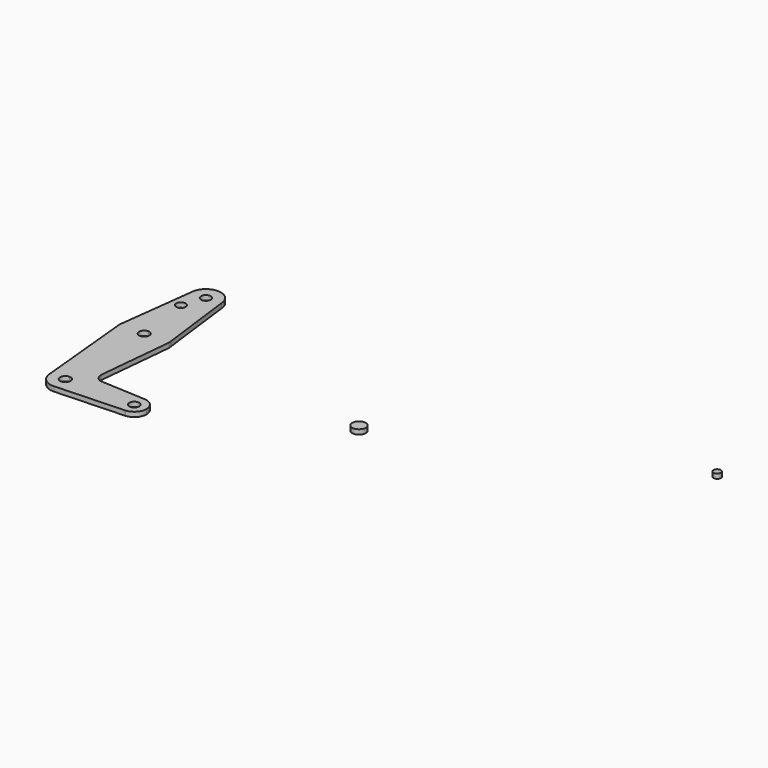
from build123d import *

# Parameters (mm, degrees)
F0_R     = 3.0886982289
F1_DEPTH = 3.048
F0_R_2   = 2.3739096922
F0_R_3   = 4.3680824595


with BuildPart() as f1:
    # F0 (on Top) → F1 (new body)
    with BuildSketch(Plane.XY):
        with BuildLine():
            ThreePointArc((-140.2758508921, 40.1682988362), (-133.4250060926, 43.0060116659), (-130.587293263, 49.8568564653))
            ThreePointArc((-130.587293263, 49.8568564653), (-130.5906056645, 50.1101819761), (-130.6005406042, 50.363334269))
            ThreePointArc((-130.6005406042, 50.363334269), (-139.8201268297, 59.5346901337), (-149.8607536893, 51.2702875036))
            Line((-149.8607536893, 51.2702875036), (-149.9162041011, 50.8221227176))
            ThreePointArc((-149.9162041011, 50.8221227176), (-147.4598674095, 43.3562368326), (-140.2758508921, 40.1682988362))
        make_face()
        with BuildLine():
            ThreePointArc((-137.1249175173, 49.8568564653), (-138.0478045357, 47.628810109), (-140.2758508921, 46.7059230906))
            ThreePointArc((-140.2758508921, 46.7059230906), (-142.5038972484, 52.0849028217), (-137.1249175173, 49.8568564653))
        make_face(mode=Mode.SUBTRACT)
        with BuildLine():
            ThreePointArc((-130.6005406042, 50.363334269), (-130.5906056645, 50.1101819761), (-130.587293263, 49.8568564653))
            ThreePointArc((-130.587293263, 49.8568564653), (-133.4250060926, 43.0060116659), (-140.2758508921, 40.1682988362))
            Line((-140.2758508921, 40.1682988362), (-140.2758508921, 15.8079204882))
            ThreePointArc((-140.2758508921, 15.8079204882), (-129.8093341247, 11.8466187969), (-124.5884194722, 1.9480363467))
            Line((-124.5884194722, 1.9480363467), (-130.6005406042, 50.363334269))
        make_face()
        with BuildLine():
            Line((-140.2758508921, 15.8079204882), (-140.2758508921, 40.1682988362))
            ThreePointArc((-140.2758508921, 40.1682988362), (-147.4598674095, 43.3562368326), (-149.9162041011, 50.8221227176))
            Line((-149.9162041011, 50.8221227176), (-155.9641448625, 1.9410776537))
            ThreePointArc((-155.9641448625, 1.9410776537), (-150.7449948148, 11.8442971799), (-140.2758508921, 15.8079204882))
        make_face()
        with Locations((-145.2001780272, 35.8199849725)):
            Circle(F0_R, mode=Mode.SUBTRACT)
        with BuildLine():
            Line((-149.9162041011, 50.8221227176), (-149.8607536893, 51.2702875036))
            ThreePointArc((-149.8607536893, 51.2702875036), (-149.891090361, 51.0465282213), (-149.9162041011, 50.8221227176))
        make_face()
        with BuildLine():
            Line((-124.3465159626, 0), (-124.5884194722, 1.9480363467))
            ThreePointArc((-124.5884194722, 1.9480363467), (-124.498081425, 0.9758795038), (-124.4679304039, 0))
            ThreePointArc((-124.4679304039, 0), (-129.0979631184, -11.1778877737), (-140.2758508921, -15.8079204882))
            Line((-140.2758508921, -15.8079204882), (-140.2758508921, -53.9274445312))
            ThreePointArc((-140.2758508921, -53.9274445312), (-133.4029489314, -56.7742937362), (-130.5560997264, -63.6471956968))
            Line((-130.5560997264, -63.6471956968), (-103.61304343, -63.6471956968))
            ThreePointArc((-103.61304343, -63.6471956968), (-101.1588327279, -57.9356262325), (-95.3262316546, -55.784826233))
            Line((-95.3262316546, -55.784826233), (-122.5580726915, -54.3523901093))
            ThreePointArc((-122.5580726915, -54.3523901093), (-123.7804203944, -54.4215588639), (-124.9887658024, -54.2245319666))
            ThreePointArc((-124.9887658024, -54.2245319666), (-127.961419377, -52.2093659514), (-129.1081595947, -48.8060513587))
            ThreePointArc((-129.1081595947, -48.8060513587), (-129.0815874585, -48.2601937732), (-129.0021522356, -47.7194936462))
            Line((-129.0021522356, -47.7194936462), (-124.3465159626, 0))
        make_face()
        with BuildLine():
            ThreePointArc((-124.4679304039, 0), (-124.498081425, 0.9758795038), (-124.5884194722, 1.9480363467))
            ThreePointArc((-124.5884194722, 1.9480363467), (-129.8093341247, 11.8466187969), (-140.2758508921, 15.8079204882))
            Line((-140.2758508921, 15.8079204882), (-140.2758508921, 3.3200765481))
            ThreePointArc((-140.2758508921, 3.3200765481), (-137.9282022508, 2.3476486413), (-136.9557743439, 0))
            ThreePointArc((-136.9557743439, 0), (-137.9282022508, -2.3476486413), (-140.2758508921, -3.3200765481))
            Line((-140.2758508921, -3.3200765481), (-140.2758508921, -15.8079204882))
            ThreePointArc((-140.2758508921, -15.8079204882), (-129.0979631184, -11.1778877737), (-124.4679304039, 0))
        make_face()
        with BuildLine():
            Line((-140.2758508921, 3.3200765481), (-140.2758508921, 15.8079204882))
            ThreePointArc((-140.2758508921, 15.8079204882), (-150.7449948148, 11.8442971799), (-155.9641448625, 1.9410776537))
            ThreePointArc((-155.9641448625, 1.9410776537), (-152.120148072, -10.4691439228), (-140.2758508921, -15.8079204882))
            Line((-140.2758508921, -15.8079204882), (-140.2758508921, -3.3200765481))
            ThreePointArc((-140.2758508921, -3.3200765481), (-143.5959274402, 0), (-140.2758508921, 3.3200765481))
        make_face()
        with BuildLine():
            ThreePointArc((-140.2758508921, -15.8079204882), (-152.120148072, -10.4691439228), (-155.9641448625, 1.9410776537))
            Line((-155.9641448625, 1.9410776537), (-156.204309995, 0))
            Line((-156.204309995, 0), (-149.9503494028, -64.5840208074))
            ThreePointArc((-149.9503494028, -64.5840208074), (-147.4723524617, -57.1139018966), (-140.2758508921, -53.9274445312))
            Line((-140.2758508921, -53.9274445312), (-140.2758508921, -15.8079204882))
        make_face()
        with BuildLine():
            Line((-129.1081595947, -48.8060513587), (-129.0021522356, -47.7194936462))
            ThreePointArc((-129.0021522356, -47.7194936462), (-129.0815874585, -48.2601937732), (-129.1081595947, -48.8060513587))
        make_face()
        with BuildLine():
            ThreePointArc((-130.5560997264, -63.6471956968), (-133.4029489314, -56.7742937362), (-140.2758508921, -53.9274445312))
            ThreePointArc((-140.2758508921, -53.9274445312), (-147.4723524617, -57.1139018966), (-149.9503494028, -64.5840208074))
            ThreePointArc((-149.9503494028, -64.5840208074), (-146.6584228149, -70.9777030716), (-139.8726003304, -73.3585782815))
            ThreePointArc((-139.8726003304, -73.3585782815), (-133.2618271596, -70.3760168271), (-130.5560997264, -63.6471956968))
        make_face()
        with BuildLine():
            ThreePointArc((-140.2758508921, -60.2817385712), (-137.8961133368, -61.2674581415), (-136.9103937665, -63.6471956968))
            ThreePointArc((-136.9103937665, -63.6471956968), (-142.6555884474, -66.0269332521), (-140.2758508921, -60.2817385712))
        make_face(mode=Mode.SUBTRACT)
        with BuildLine():
            Line((-103.61304343, -63.6471956968), (-130.5560997264, -63.6471956968))
            ThreePointArc((-130.5560997264, -63.6471956968), (-133.2618271596, -70.3760168271), (-139.8726003304, -73.3585782815))
            Line((-139.8726003304, -73.3585782815), (-95.5498732555, -71.518143675))
            ThreePointArc((-95.5498732555, -71.518143675), (-101.2394643803, -69.2811671056), (-103.61304343, -63.6471956968))
        make_face()
        with BuildLine():
            Line((-122.5580726915, -54.3523901093), (-124.9887658024, -54.2245319666))
            ThreePointArc((-124.9887658024, -54.2245319666), (-123.7804203944, -54.4215588639), (-122.5580726915, -54.3523901093))
        make_face()
        with BuildLine():
            ThreePointArc((-95.3262316546, -55.784826233), (-101.1588327279, -57.9356262325), (-103.61304343, -63.6471956968))
            ThreePointArc((-103.61304343, -63.6471956968), (-101.2394643803, -69.2811671056), (-95.5498732555, -71.518143675))
            Line((-95.5498732555, -71.518143675), (-95.2765478659, -71.5067942491))
            ThreePointArc((-95.2765478659, -71.5067942491), (-90.0111384017, -69.0481478276), (-87.8665649866, -63.6471956968))
            ThreePointArc((-87.8665649866, -63.6471956968), (-90.0282347439, -58.2281671773), (-95.3262316546, -55.784826233))
        make_face()
        with BuildLine():
            ThreePointArc((-92.5238399909, -63.6471956968), (-95.7398042083, -66.8631599142), (-98.9557684257, -63.6471956968))
            ThreePointArc((-98.9557684257, -63.6471956968), (-95.7398042083, -60.4312314794), (-92.5238399909, -63.6471956968))
        make_face(mode=Mode.SUBTRACT)
        with BuildLine():
            Line((-95.2765478659, -71.5067942491), (-95.5498732555, -71.518143675))
            ThreePointArc((-95.5498732555, -71.518143675), (-95.413161264, -71.5136561607), (-95.2765478659, -71.5067942491))
        make_face()
    extrude(amount=F1_DEPTH)


with BuildPart() as f1b:
    # F0 (on Top) → F1, piece 2 (new body)
    with BuildSketch(Plane.XY):
        with Locations((179.4074773788, 62.9857331514)):
            Circle(F0_R_2)
    extrude(amount=F1_DEPTH)


with BuildPart() as f1c:
    # F0 (on Top) → F1, piece 3 (new body)
    with BuildSketch(Plane.XY):
        with Locations((6.8824104965, -10.5465641245)):
            Circle(F0_R_3)
    extrude(amount=F1_DEPTH)


solid = Compound([f1.part, f1b.part, f1c.part])
